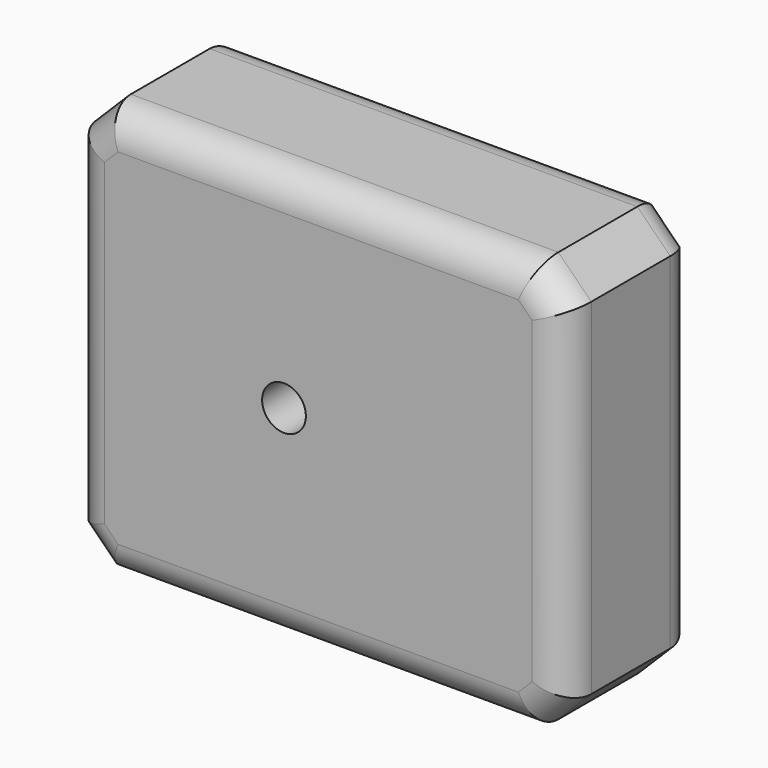
from build123d import *

# Parameters (mm, degrees)
F0_W     = 76.2
F0_H     = 63.5
F1_DEPTH = 25.4
F2_SIZE  = 5.08
F3_R     = 5.08
F5_D     = 6.7564


with BuildPart() as f1:
    # F0 (on Front) → F1 (new body)
    with BuildSketch(Plane.XZ):
        with Locations((38.1, 31.75)):
            Rectangle(F0_W, F0_H)
    extrude(amount=F1_DEPTH)

    # F2
    f2_edges = [f1.edges().sort_by_distance(p)[0] for p in [
        (0, -12.7, 63.5),
        (76.2, -12.7, 63.5),
        (76.2, -12.7, 0),
        (0, -12.7, 0),
    ]]
    chamfer(f2_edges, length=F2_SIZE)

    # F3
    f3_edges = [f1.edges().sort_by_distance(p)[0] for p in [
        (0, -25.4, 31.75),
        (2.54, -25.4, 60.96),
        (38.1, -25.4, 63.5),
        (73.66, -25.4, 60.96),
        (76.2, -25.4, 31.75),
        (73.66, -25.4, 2.54),
        (38.1, -25.4, 0),
        (2.54, -25.4, 2.54),
        (38.1, 0, 0),
        (2.54, 0, 2.54),
        (0, 0, 31.75),
        (2.54, 0, 60.96),
        (38.1, 0, 63.5),
        (73.66, 0, 60.96),
        (73.66, 0, 2.54),
        (76.2, 0, 31.75),
    ]]
    fillet(f3_edges, radius=F3_R)

    # F5 (through all)
    with Locations(Plane.XZ.offset(25.4)):
        with Locations((32.8130275011, 31.9233834743)):
            Hole(F5_D / 2)


solid = f1.part
